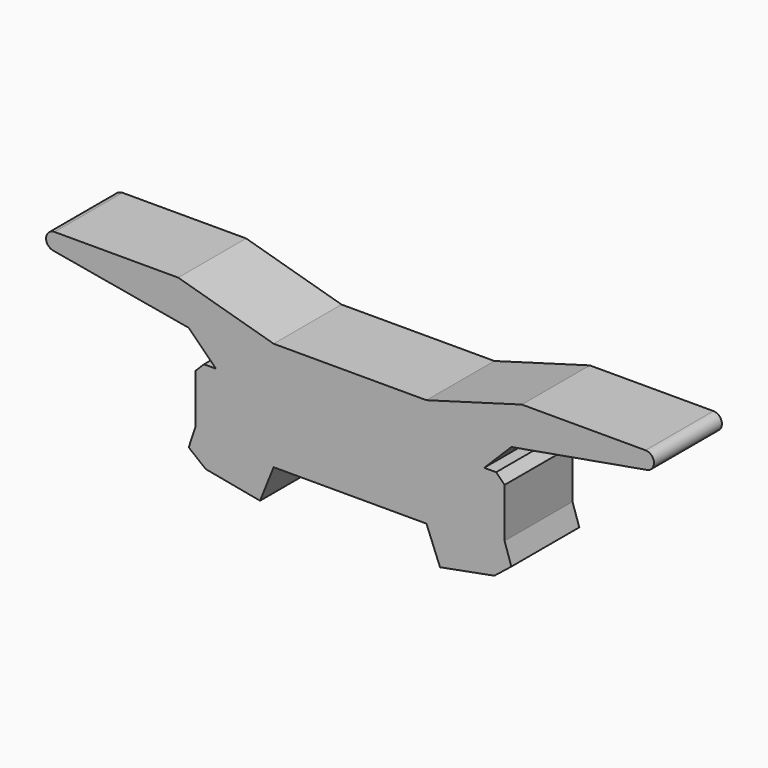
from build123d import *

# Parameters (mm, degrees)
PAD002_DEPTH = 12.5


with BuildPart() as part:
    # Sketch003 → Pad002 (new body, symmetric)
    with BuildSketch(Plane.XZ):
        with BuildLine():
            Line((-22.5, 59.5), (22.5, 59.5))
            Line((22.5, 59.5), (50.596605, 67.5))
            Line((50.596605, 67.5), (87, 67.5))
            ThreePointArc((87.433912, 62.537944), (89.490496, 65.217784), (87, 67.5))
            Line((87.433912, 62.537944), (47.5, 55.5))
            Line((47.5, 55.5), (39.5, 47.5))
            Line((39.5, 47.5), (43.014719, 47.5))
            Line((43.014719, 47.5), (45.5, 45.014719))
            Line((45.5, 45.014719), (45.5, 30.5))
            Line((45.5, 30.5), (47.5, 24.5))
            Line((47.5, 24.5), (42.5, 20.5))
            Line((42.5, 20.5), (26.5, 17.5))
            Line((26.5, 17.5), (22.5, 27.5))
            Line((-22.5, 27.5), (22.5, 27.5))
            Line((-22.5, 27.5), (-26.5, 17.5))
            Line((-26.5, 17.5), (-42.5, 20.5))
            Line((-42.5, 20.5), (-47.5, 24.5))
            Line((-47.5, 24.5), (-45.5, 30.5))
            Line((-45.5, 30.5), (-45.5, 45.014719))
            Line((-45.5, 45.014719), (-43.014719, 47.5))
            Line((-43.014719, 47.5), (-39.5, 47.5))
            Line((-39.5, 47.5), (-47.5, 55.5))
            Line((-47.5, 55.5), (-87.433912, 62.537944))
            ThreePointArc((-87, 67.5), (-89.490496, 65.217784), (-87.433912, 62.537944))
            Line((-87, 67.5), (-50.596605, 67.5))
            Line((-50.596605, 67.5), (-22.5, 59.5))
        make_face()
    extrude(amount=PAD002_DEPTH, both=True)


solid = part.part
